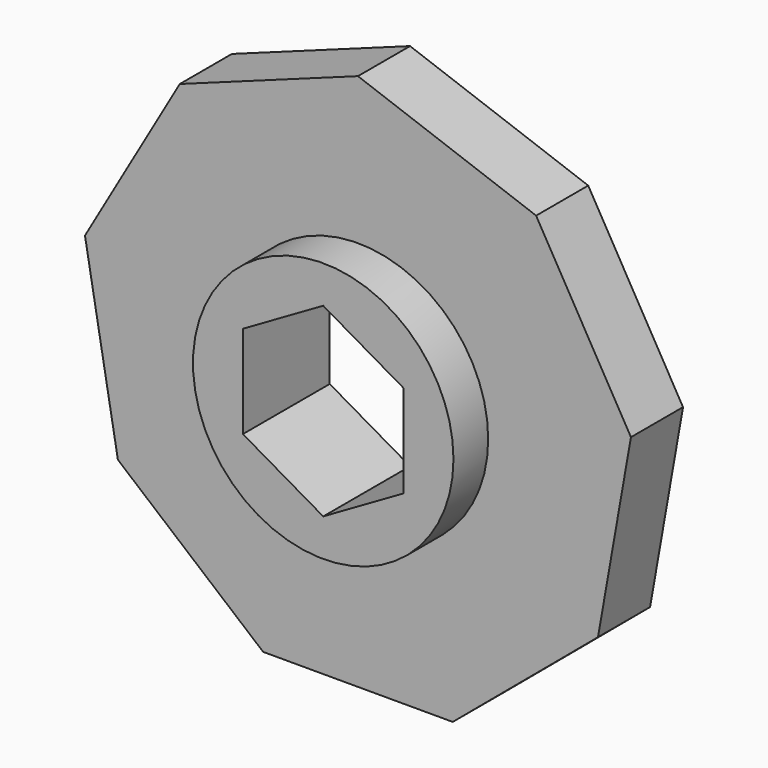
from build123d import *

# Parameters (mm, degrees)
F0_R     = 6
F1_DEPTH = 3
F2_DEPTH = 5


with BuildPart() as f1:
    # F0 (on Front) → F1 (new body)
    with BuildSketch(Plane.XZ):
        Polygon((-4.367643, -12), (4.367643, -12), (11.05926, -6.385067), (12.576126, 2.21751), (8.208483, 9.78249), (0, 12.770133), (-8.208483, 9.78249), (-12.576126, 2.21751), (-11.05926, -6.385067), align=None)
        Circle(F0_R, mode=Mode.SUBTRACT)
    extrude(amount=F1_DEPTH)

    # F0 (on Front) → F2 (join)
    with BuildSketch(Plane.XZ):
        Circle(F0_R)
        Polygon((0, -4.272392), (-3.7, -2.136196), (-3.7, 2.136196), (0, 4.272392), (3.7, 2.136196), (3.7, -2.136196), align=None, mode=Mode.SUBTRACT)
    extrude(amount=F2_DEPTH)


solid = f1.part
